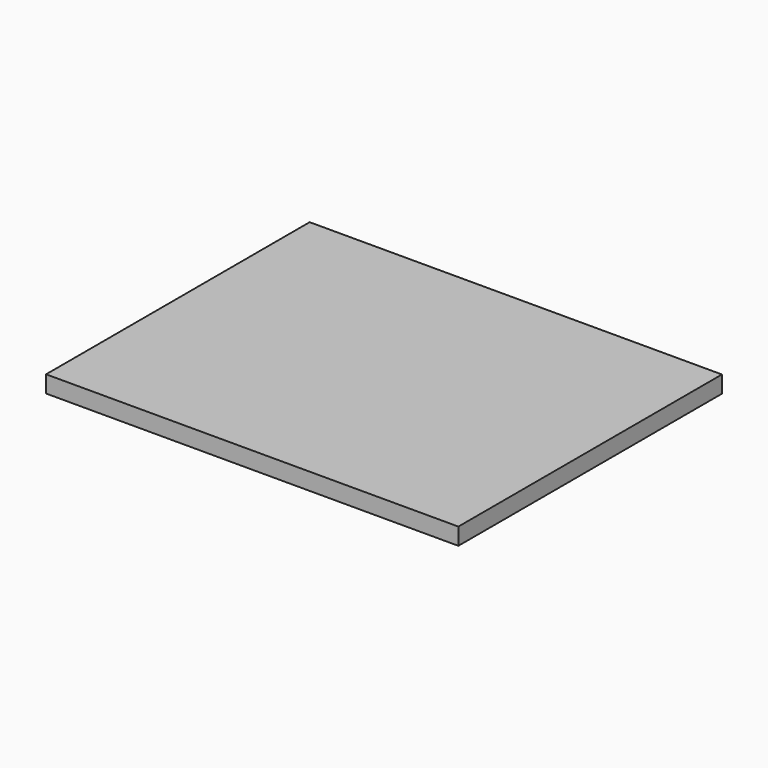
from build123d import *

# Parameters (mm, degrees)
SKETCH_W  = 438
SKETCH_H  = 350
PAD_DEPTH = 18


with BuildPart() as part:
    # Sketch → Pad (new body)
    with BuildSketch(Plane.XY):
        with Locations((-219, 175)):
            Rectangle(SKETCH_W, SKETCH_H)
    extrude(amount=PAD_DEPTH)


solid = part.part
